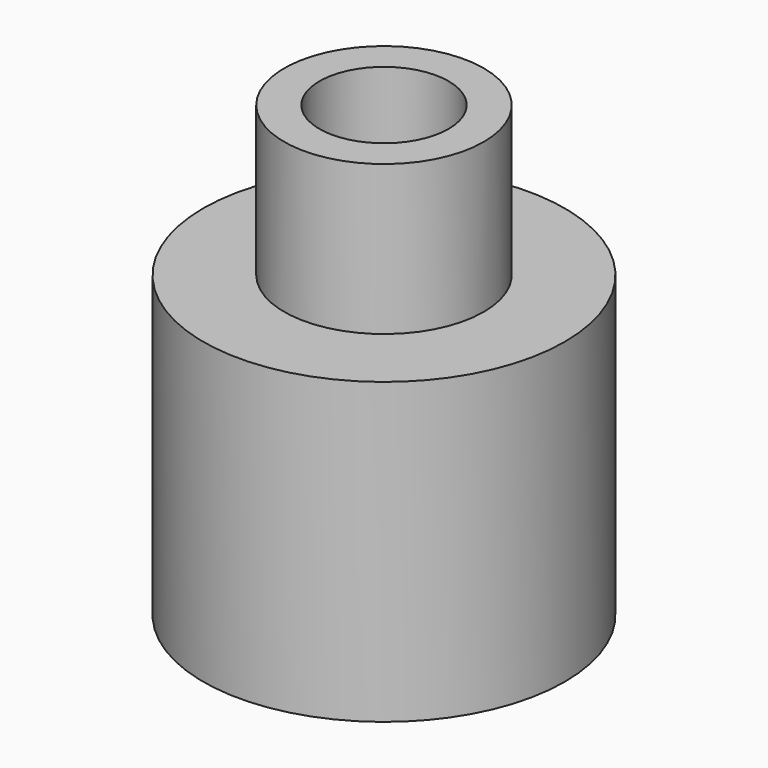
from build123d import *

# Parameters (mm, degrees)
F0_R     = 9.204375
F1_DEPTH = 12.7
F2_R     = 9.204375
F2_R_2   = 5.08
F3_DEPTH = 2.54
F2_R_3   = 3.2893
F4_DEPTH = 10.16


with BuildPart() as f1:
    # F0 (on Top) → F1 (new body)
    with BuildSketch(Plane.XY):
        with Locations((-50.731555, -47.856007)):
            Circle(F0_R)
        Polygon((-45.574418, -42.197481), (-43.252559, -49.492956), (-48.409696, -55.151481), (-55.888692, -53.514532), (-58.21055, -46.219058), (-53.053413, -40.560532), align=None, mode=Mode.SUBTRACT)
    extrude(amount=F1_DEPTH)

    # F2 (on face) → F3 (join)
    with BuildSketch(Plane.XY.offset(12.7)):
        with Locations((-50.731555, -47.856007)):
            Circle(F2_R)
        Polygon((-53.053413, -40.560532), (-45.574418, -42.197481), (-43.252559, -49.492956), (-48.409696, -55.151481), (-55.888692, -53.514532), (-58.21055, -46.219058), align=None, mode=Mode.SUBTRACT)
        Polygon((-43.252559, -49.492956), (-45.574418, -42.197481), (-53.053413, -40.560532), (-58.21055, -46.219058), (-55.888692, -53.514532), (-48.409696, -55.151481), align=None)
        with Locations((-50.731555, -47.856007)):
            Circle(F2_R_2, mode=Mode.SUBTRACT)
    extrude(amount=F3_DEPTH)

    # F2 (on face) → F4 (join)
    with BuildSketch(Plane.XY.offset(12.7)):
        with Locations((-50.731555, -47.856007)):
            Circle(F2_R_2)
        with Locations((-50.731555, -47.856007)):
            Circle(F2_R_3, mode=Mode.SUBTRACT)
    extrude(amount=F4_DEPTH)


solid = f1.part
